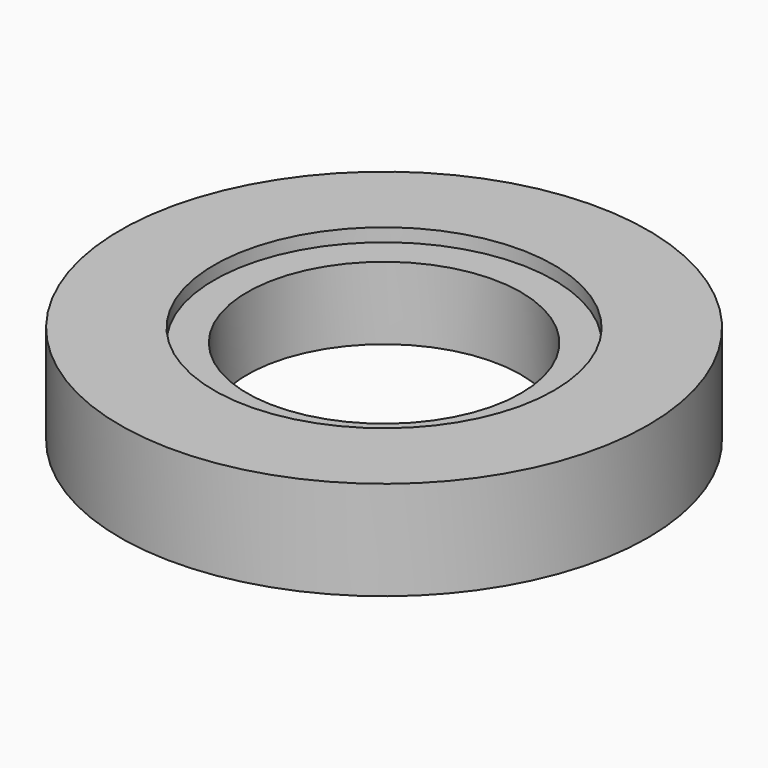
from build123d import *

# Parameters (mm, degrees)
F0_R     = 8
F1_DEPTH = 3
F2_R     = 4.15
F3_DEPTH = 25
F4_R     = 5.15
F5_DEPTH = 0.4
F6_R     = 5.15
F7_DEPTH = 0.4


with BuildPart() as f1:
    # F0 (on Top) → F1 (new body)
    with BuildSketch(Plane.XY):
        Circle(F0_R)
    extrude(amount=F1_DEPTH)

    # F2 (on face) → F3 (cut)
    with BuildSketch(Plane.XY.offset(3)):
        Circle(F2_R)
    extrude(amount=-F3_DEPTH, mode=Mode.SUBTRACT)

    # F4 (on face) → F5 (cut)
    with BuildSketch(Plane(origin=(0, 0, 0), x_dir=(1, 0, 0), z_dir=(0, 0, -1))):
        Circle(F4_R)
    extrude(amount=-F5_DEPTH, mode=Mode.SUBTRACT)

    # F6 (on face) → F7 (cut)
    with BuildSketch(Plane.XY.offset(3)):
        Circle(F6_R)
    extrude(amount=-F7_DEPTH, mode=Mode.SUBTRACT)


solid = f1.part
